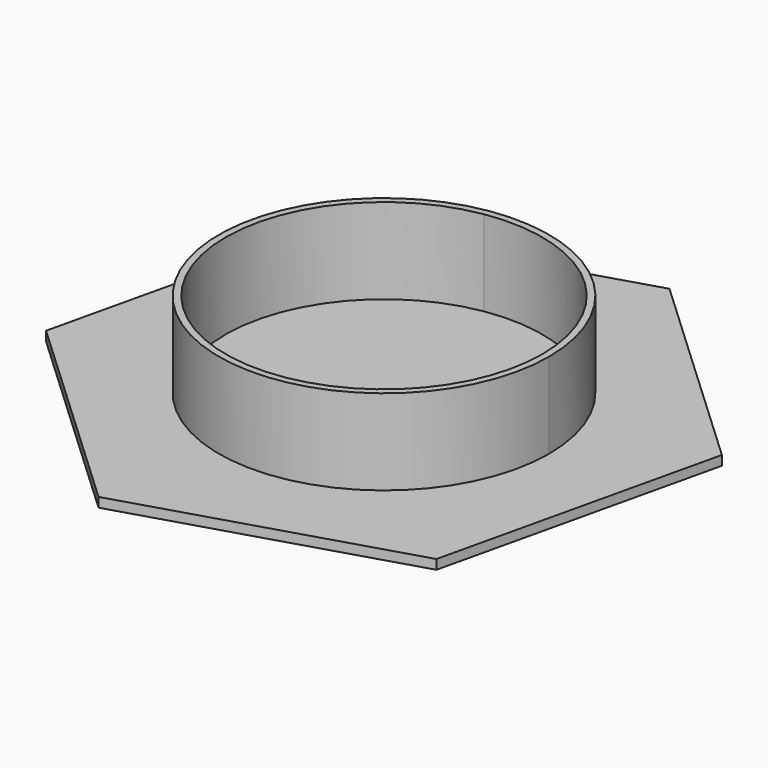
from build123d import *

# Parameters (mm, degrees)
F2_DEPTH = 25.4
F3_DEPTH = 2.54


with BuildPart() as f2:
    # F0 (on Top) → F2 (new body)
    with BuildSketch(Plane.XY):
        with BuildLine():
            ThreePointArc((-6.729276, 43.616594), (-28.728989, -33.501277), (44.132645, 0))
            ThreePointArc((44.132645, 0), (28.728989, 33.501277), (-6.729276, 43.616594))
        make_face()
        with BuildLine():
            ThreePointArc((42.328996, 0), (-27.449048, -32.222565), (-6.729276, 41.790678))
            ThreePointArc((-6.729276, 41.790678), (27.449048, 32.222565), (42.328996, 0))
        make_face(mode=Mode.SUBTRACT)
    extrude(amount=F2_DEPTH)

    # F1 (on Top) → F3 (join)
    with BuildSketch(Plane.XY):
        Polygon((17.142611, 73.963623), (-55.483071, 51.827748), (-72.625682, -22.135875), (-17.142611, -73.963623), (55.483071, -51.827748), (72.625682, 22.135875), align=None)
    extrude(amount=F3_DEPTH)


solid = f2.part
